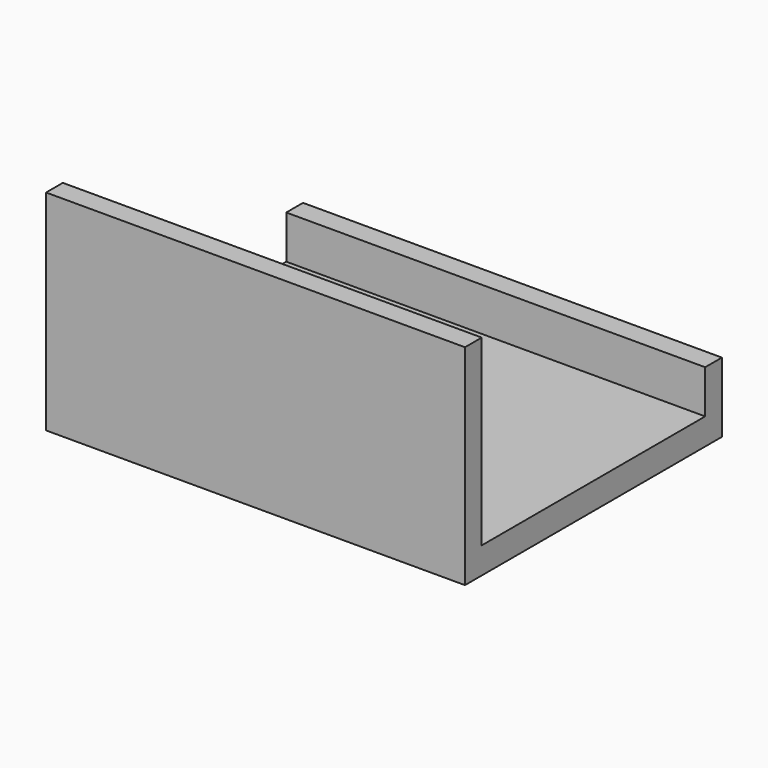
from build123d import *

# Parameters (mm, degrees)
F0_W     = 76.2
F0_H     = 50.8
F2_DEPTH = 4.826
F3_W     = 76.2
F3_H     = 38.1
F4_DEPTH = 3.81
F5_W     = 76.2
F5_H     = 12.7
F6_DEPTH = 3.81


with BuildPart() as f2:
    # F0 (on Top) → F2 (new body)
    with BuildSketch(Plane.XY):
        Rectangle(F0_W, F0_H)
    extrude(amount=F2_DEPTH)

    # F3 (on face) → F4 (join)
    with BuildSketch(Plane.XZ.offset(25.4)):
        with Locations((0, 19.05)):
            Rectangle(F3_W, F3_H)
    extrude(amount=F4_DEPTH)

    # F5 (on face) → F6 (join)
    with BuildSketch(Plane(origin=(0, 25.4, 0), x_dir=(-1, 0, 0), z_dir=(0, 1, 0))):
        with Locations((0, 6.35)):
            Rectangle(F5_W, F5_H)
    extrude(amount=F6_DEPTH)


solid = f2.part
